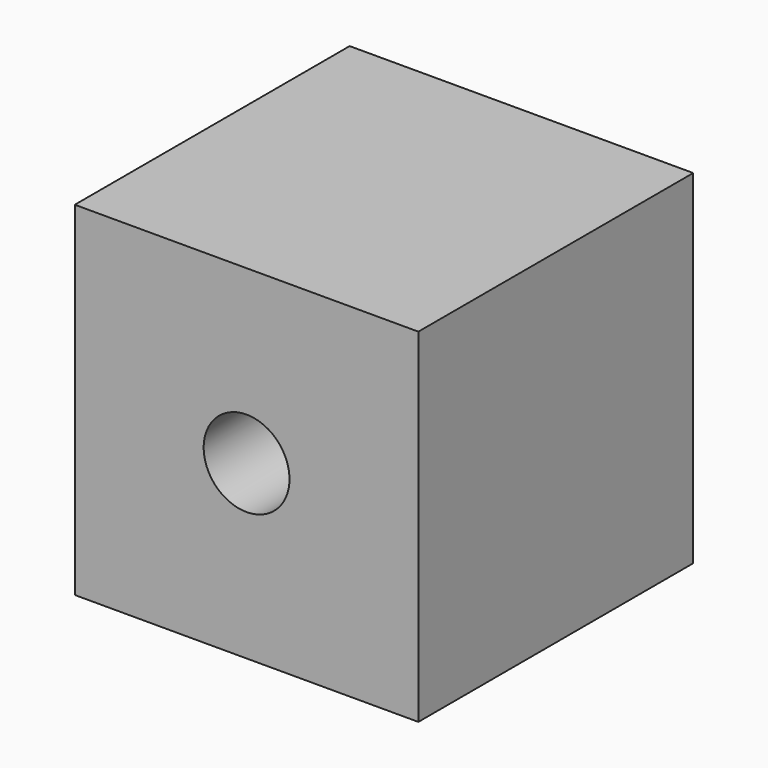
from build123d import *

# Parameters (mm, degrees)
F0_W     = 25.4
F0_H     = 25.4
F1_DEPTH = 25.4
F3_D     = 6.35
F3_DEPTH = 12.7
F3_TIP   = 1.9077324654


with BuildPart() as f1:
    # F0 (on Front) → F1 (new body)
    with BuildSketch(Plane.XZ):
        with Locations((12.7, 12.7)):
            Rectangle(F0_W, F0_H)
    extrude(amount=F1_DEPTH)

    # F3
    with Locations(Plane.XZ.offset(25.4)):
        with Locations((12.7, 12.7)):
            Hole(F3_D / 2, depth=F3_DEPTH)
            with Locations((0, 0, -(F3_DEPTH + F3_TIP / 2))):  # 118° drill point
                Cone(0, F3_D / 2, F3_TIP, mode=Mode.SUBTRACT)


solid = f1.part
